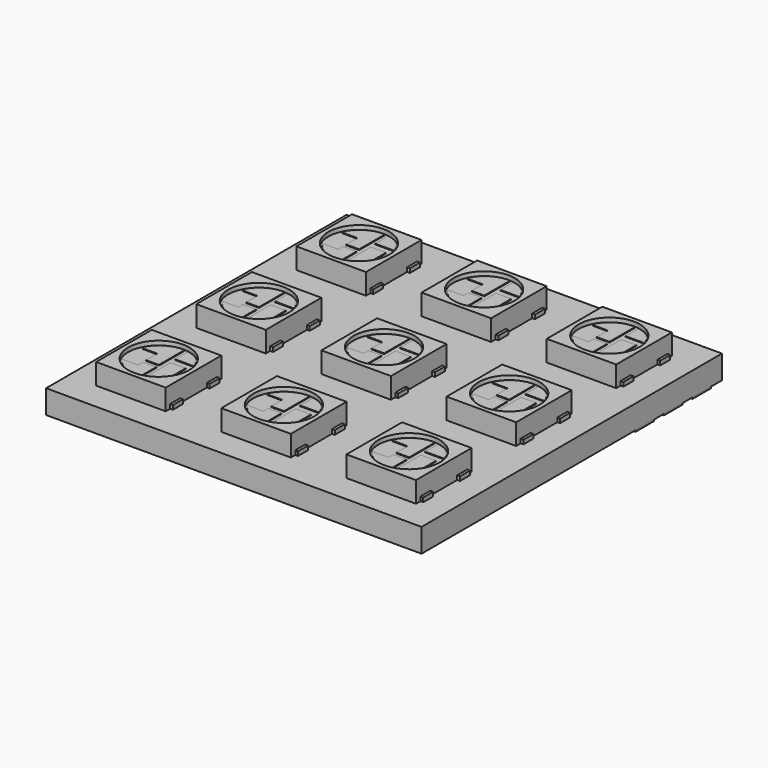
from build123d import *

# Parameters (mm, degrees)
SKETCH002_W      = 0.9
SKETCH002_H      = 0.9
PAD001_DEPTH     = 0.3
ARRAY001_X_COUNT = 3
ARRAY001_X_PITCH = 9
ARRAY001_Y_COUNT = 3
ARRAY001_Y_PITCH = 9
SKETCH_W         = 5
SKETCH_H         = 5
PAD_DEPTH        = 1.5
SKETCH001_R      = 2.2
POCKET_DEPTH     = 0.3
PAD002_DEPTH     = 0.05
ARRAY_X_COUNT    = 3
ARRAY_X_PITCH    = 9
ARRAY_Y_COUNT    = 3
ARRAY_Y_PITCH    = 9
SKETCH004_W      = 27
SKETCH004_H      = 27
PAD003_DEPTH     = 1.7
SKETCH005_W      = 2.82
SKETCH005_H      = 1.65
PAD004_DEPTH     = 0.1
ARRAY002_COUNT   = 2


with BuildPart() as array001:
    # Sketch002 → Pad001 (new body)
    with BuildSketch(Plane.XY):
        with Locations((0.25, 4.15)):
            Rectangle(SKETCH002_W, SKETCH002_H)
        with Locations((0.25, 0.85)):
            Rectangle(SKETCH002_W, SKETCH002_H)
        with Locations((4.75, 4.15)):
            Rectangle(SKETCH002_W, SKETCH002_H)
        with Locations((4.75, 0.85)):
            Rectangle(SKETCH002_W, SKETCH002_H)
    extrude(amount=PAD001_DEPTH)

    # Array001 X: Array001 ×3


with BuildPart() as array001_1:
    add(array001.part)
    with Locations(*[(i * ARRAY001_X_PITCH, 0, 0) for i in range(1, ARRAY001_X_COUNT)]):
        add(array001.part)

    # Array001 Y: Array001 ×3


with BuildPart() as array001_2:
    add(array001_1.part)
    with Locations(*[(0, i * ARRAY001_Y_PITCH, 0) for i in range(1, ARRAY001_Y_COUNT)]):
        add(array001_1.part)


with BuildPart() as fusion:
    # Sketch → Pad (new body)
    with BuildSketch(Plane.XY):
        with Locations((2.5, 2.5)):
            Rectangle(SKETCH_W, SKETCH_H)
    extrude(amount=PAD_DEPTH)

    # Sketch001 → Pocket (cut)
    with BuildSketch(Plane.XY.offset(1.5)):
        with Locations((2.5, 2.5)):
            Circle(SKETCH001_R)
    extrude(amount=-POCKET_DEPTH, mode=Mode.SUBTRACT)

    # Sketch003 → Pad002 (new body)
    with BuildSketch(Plane.XY.offset(1.2)):
        with BuildLine():
            Line((0.673723, 3.305607), (1.746158, 3.305607))
            Line((1.746158, 3.305607), (1.746158, 2.297776))
            Line((1.746158, 2.297776), (2.676463, 2.297776))
            Line((2.676463, 2.297776), (2.676463, 4.610619))
            ThreePointArc((2.676463, 4.610619), (1.488818, 4.24398), (0.673723, 3.305607))
        make_face()
        with BuildLine():
            Line((2.947803, 4.533094), (2.947803, 3.396053))
            Line((2.947803, 3.396053), (4.330341, 3.396053))
            ThreePointArc((4.330341, 3.396053), (3.800275, 4.160582), (2.947803, 4.533094))
        make_face()
        with BuildLine():
            Line((0.634959, 1.561285), (1.772, 1.561285))
            Line((1.772, 1.561285), (1.772, 2.000595))
            Line((1.772, 2.000595), (2.728147, 2.000595))
            Line((2.728147, 2.000595), (2.728147, 0.475928))
            ThreePointArc((0.634959, 1.561285), (1.527707, 0.721903), (2.728147, 0.475928))
        make_face()
        with BuildLine():
            Line((3.012408, 0.553453), (3.012408, 2.91798))
            Line((3.012408, 2.91798), (4.110684, 2.91798))
            Line((4.110684, 2.91798), (4.110684, 1.277024))
            ThreePointArc((3.012408, 0.553453), (3.65088, 0.779642), (4.110684, 1.277024))
        make_face()
    extrude(amount=PAD002_DEPTH)

    # Array X: Fusion ×3


with BuildPart() as fusion_1:
    add(fusion.part)
    with Locations(*[(i * ARRAY_X_PITCH, 0, 0) for i in range(1, ARRAY_X_COUNT)]):
        add(fusion.part)

    # Array Y: Fusion ×3


with BuildPart() as fusion_2:
    add(fusion_1.part)
    with Locations(*[(0, i * ARRAY_Y_PITCH, 0) for i in range(1, ARRAY_Y_COUNT)]):
        add(fusion_1.part)

    # Fusion: union Array001
    add(array001_2.part)


with BuildPart() as fusion_3:
    # Fusion placement: moved
    add(fusion_2.part.moved(Location((2, 2, 1.7))))


with BuildPart() as pcb:
    # Sketch004 → Pad003 (new body)
    with BuildSketch(Plane.XY):
        with Locations((13.5, 13.5)):
            Rectangle(SKETCH004_W, SKETCH004_H)
    extrude(amount=PAD003_DEPTH)


with BuildPart() as array002:
    # Sketch005 → Pad004 (new body)
    with BuildSketch(Plane.XY):
        with Locations((1.41, 1.825)):
            Rectangle(SKETCH005_W, SKETCH005_H)
        with Locations((1.41, 4.385)):
            Rectangle(SKETCH005_W, SKETCH005_H)
        with Locations((1.41, 6.945)):
            Rectangle(SKETCH005_W, SKETCH005_H)
    extrude(amount=-PAD004_DEPTH)

    # Array002: Array002 ×2 about axis
    array002_axis = Axis((13.5, 13.5, 0), (0, 0, 1))


with BuildPart() as array002_1:
    add(array002.part)
    for i in range(1, ARRAY002_COUNT):
        add(array002.part.rotate(array002_axis, i * 360 / ARRAY002_COUNT))


solid = Compound([fusion_3.part, pcb.part, array002_1.part])
